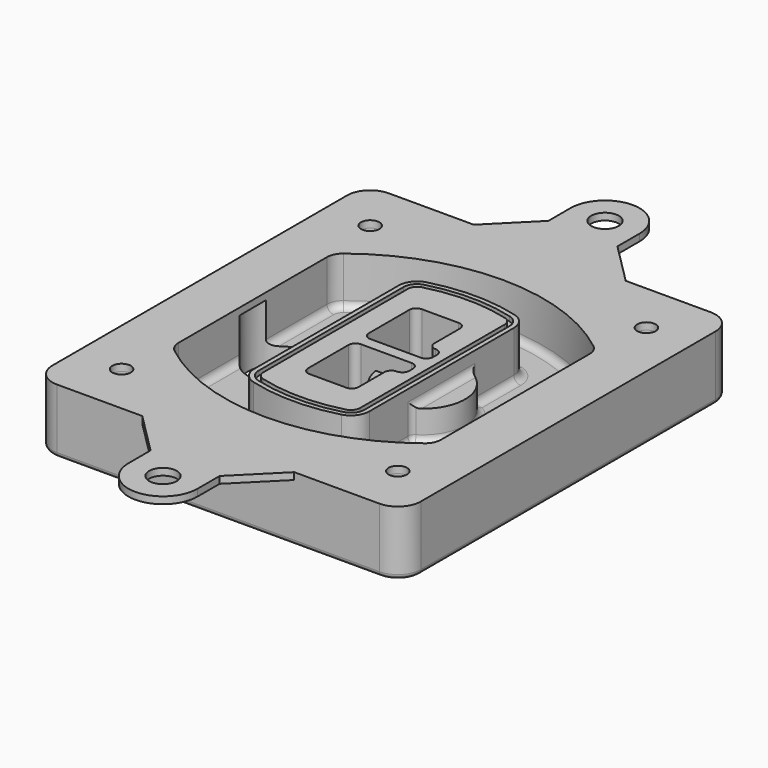
from build123d import *

# Parameters (mm, degrees)
F0_R      = 4
F1_DEPTH  = 25
F2_DEPTH  = 3
F3_DEPTH  = 18
F5_DEPTH  = 21
F6_DEPTH  = 2
F8_DEPTH  = 20
F9_DEPTH  = 16
F10_DEPTH = 25
F7_R      = 6
F7_R_2    = 4
F11_DEPTH = 6
F13_DEPTH = 9
F14_R     = 3
F15_R     = 2
F16_R     = 6
F16_R_2   = 4
F17_DEPTH = 3


with BuildPart() as f1:
    # F0 (on Top) → F1 (new body)
    with BuildSketch(Plane.XY):
        with BuildLine():
            ThreePointArc((-80, -80), (-77.0710678119, -87.0710678119), (-70, -90))
            Line((-70, -90), (70, -90))
            ThreePointArc((70, -90), (77.0710678119, -87.0710678119), (80, -80))
            Line((80, -80), (80, 80))
            ThreePointArc((80, 80), (77.0710678119, 87.0710678119), (70, 90))
            Line((70, 90), (-70, 90))
            ThreePointArc((-70, 90), (-77.0710678119, 87.0710678119), (-80, 80))
            Line((-80, 80), (-80, -80))
        make_face()
        with Locations((-60, -67.5)):
            Circle(F0_R, mode=Mode.SUBTRACT)
        with Locations((60, -67.5)):
            Circle(F0_R, mode=Mode.SUBTRACT)
        with Locations((-60, 67.5)):
            Circle(F0_R, mode=Mode.SUBTRACT)
        with BuildLine():
            ThreePointArc((-64, 40.2934422872), (-62.5820384798, 46.4328484224), (-58.6153846154, 51.3286200352))
            ThreePointArc((-58.6153846154, 51.3286200352), (0, 71.5), (58.6153846154, 51.3286200352))
            ThreePointArc((58.6153846154, 51.3286200352), (62.5820384798, 46.4328484224), (64, 40.2934422872))
            Line((64, 40.2934422872), (64, -40.2934422872))
            ThreePointArc((64, -40.2934422872), (62.5820384798, -46.4328484224), (58.6153846154, -51.3286200352))
            ThreePointArc((58.6153846154, -51.3286200352), (0, -71.5), (-58.6153846154, -51.3286200352))
            ThreePointArc((-58.6153846154, -51.3286200352), (-62.5820384798, -46.4328484224), (-64, -40.2934422872))
            Line((-64, -40.2934422872), (-64, 40.2934422872))
        make_face(mode=Mode.SUBTRACT)
        with Locations((60, 67.5)):
            Circle(F0_R, mode=Mode.SUBTRACT)
        with BuildLine():
            ThreePointArc((58.6153846154, 51.3286200352), (0, 71.5), (-58.6153846154, 51.3286200352))
            ThreePointArc((-58.6153846154, 51.3286200352), (-62.5820384798, 46.4328484224), (-64, 40.2934422872))
            Line((-64, 40.2934422872), (-64, -40.2934422872))
            ThreePointArc((-64, -40.2934422872), (-62.5820384798, -46.4328484224), (-58.6153846154, -51.3286200352))
            ThreePointArc((-58.6153846154, -51.3286200352), (0, -71.5), (58.6153846154, -51.3286200352))
            ThreePointArc((58.6153846154, -51.3286200352), (62.5820384798, -46.4328484224), (64, -40.2934422872))
            Line((64, -40.2934422872), (64, 40.2934422872))
            ThreePointArc((64, 40.2934422872), (62.5820384798, 46.4328484224), (58.6153846154, 51.3286200352))
        make_face()
        with BuildLine():
            Line((-60, -40.2934422872), (-60, 40.2934422872))
            ThreePointArc((-60, 40.2934422872), (-58.9871703427, 44.6787323838), (-56.1538461538, 48.1757121072))
            ThreePointArc((-56.1538461538, 48.1757121072), (0, 67.5), (56.1538461538, 48.1757121072))
            ThreePointArc((56.1538461538, 48.1757121072), (58.9871703427, 44.6787323838), (60, 40.2934422872))
            Line((60, 40.2934422872), (60, -40.2934422872))
            ThreePointArc((60, -40.2934422872), (58.9871703427, -44.6787323838), (56.1538461538, -48.1757121072))
            ThreePointArc((56.1538461538, -48.1757121072), (0, -67.5), (-56.1538461538, -48.1757121072))
            ThreePointArc((-56.1538461538, -48.1757121072), (-58.9871703427, -44.6787323838), (-60, -40.2934422872))
        make_face(mode=Mode.SUBTRACT)
        with BuildLine():
            ThreePointArc((-56.1538461538, 48.1757121072), (-58.9871703427, 44.6787323838), (-60, 40.2934422872))
            Line((-60, 40.2934422872), (-60, -40.2934422872))
            ThreePointArc((-60, -40.2934422872), (-58.9871703427, -44.6787323838), (-56.1538461538, -48.1757121072))
            ThreePointArc((-56.1538461538, -48.1757121072), (0, -67.5), (56.1538461538, -48.1757121072))
            ThreePointArc((56.1538461538, -48.1757121072), (58.9871703427, -44.6787323838), (60, -40.2934422872))
            Line((60, -40.2934422872), (60, 40.2934422872))
            ThreePointArc((60, 40.2934422872), (58.9871703427, 44.6787323838), (56.1538461538, 48.1757121072))
            ThreePointArc((56.1538461538, 48.1757121072), (0, 67.5), (-56.1538461538, 48.1757121072))
        make_face()
        with BuildLine():
            ThreePointArc((54.3076923077, 45.8110311612), (56.2910192399, 43.3631453548), (57, 40.2934422872))
            Line((57, 40.2934422872), (57, -40.2934422872))
            ThreePointArc((57, -40.2934422872), (56.2910192399, -43.3631453548), (54.3076923077, -45.8110311612))
            ThreePointArc((54.3076923077, -45.8110311612), (0, -64.5), (-54.3076923077, -45.8110311612))
            ThreePointArc((-54.3076923077, -45.8110311612), (-56.2910192399, -43.3631453548), (-57, -40.2934422872))
            Line((-57, -40.2934422872), (-57, 40.2934422872))
            ThreePointArc((-57, 40.2934422872), (-56.2910192399, 43.3631453548), (-54.3076923077, 45.8110311612))
            ThreePointArc((-54.3076923077, 45.8110311612), (0, 64.5), (54.3076923077, 45.8110311612))
        make_face(mode=Mode.SUBTRACT)
        with BuildLine():
            Line((57, -40.2934422872), (57, 40.2934422872))
            ThreePointArc((57, 40.2934422872), (56.2910192399, 43.3631453548), (54.3076923077, 45.8110311612))
            ThreePointArc((54.3076923077, 45.8110311612), (0, 64.5), (-54.3076923077, 45.8110311612))
            ThreePointArc((-54.3076923077, 45.8110311612), (-56.2910192399, 43.3631453548), (-57, 40.2934422872))
            Line((-57, 40.2934422872), (-57, -40.2934422872))
            ThreePointArc((-57, -40.2934422872), (-56.2910192399, -43.3631453548), (-54.3076923077, -45.8110311612))
            ThreePointArc((-54.3076923077, -45.8110311612), (0, -64.5), (54.3076923077, -45.8110311612))
            ThreePointArc((54.3076923077, -45.8110311612), (56.2910192399, -43.3631453548), (57, -40.2934422872))
        make_face()
    extrude(amount=-F1_DEPTH)

    # F0 (on Top) → F2 (join)
    with BuildSketch(Plane.XY):
        with BuildLine():
            ThreePointArc((-56.1538461538, 48.1757121072), (-58.9871703427, 44.6787323838), (-60, 40.2934422872))
            Line((-60, 40.2934422872), (-60, -40.2934422872))
            ThreePointArc((-60, -40.2934422872), (-58.9871703427, -44.6787323838), (-56.1538461538, -48.1757121072))
            ThreePointArc((-56.1538461538, -48.1757121072), (0, -67.5), (56.1538461538, -48.1757121072))
            ThreePointArc((56.1538461538, -48.1757121072), (58.9871703427, -44.6787323838), (60, -40.2934422872))
            Line((60, -40.2934422872), (60, 40.2934422872))
            ThreePointArc((60, 40.2934422872), (58.9871703427, 44.6787323838), (56.1538461538, 48.1757121072))
            ThreePointArc((56.1538461538, 48.1757121072), (0, 67.5), (-56.1538461538, 48.1757121072))
        make_face()
        with BuildLine():
            ThreePointArc((54.3076923077, 45.8110311612), (56.2910192399, 43.3631453548), (57, 40.2934422872))
            Line((57, 40.2934422872), (57, -40.2934422872))
            ThreePointArc((57, -40.2934422872), (56.2910192399, -43.3631453548), (54.3076923077, -45.8110311612))
            ThreePointArc((54.3076923077, -45.8110311612), (0, -64.5), (-54.3076923077, -45.8110311612))
            ThreePointArc((-54.3076923077, -45.8110311612), (-56.2910192399, -43.3631453548), (-57, -40.2934422872))
            Line((-57, -40.2934422872), (-57, 40.2934422872))
            ThreePointArc((-57, 40.2934422872), (-56.2910192399, 43.3631453548), (-54.3076923077, 45.8110311612))
            ThreePointArc((-54.3076923077, 45.8110311612), (0, 64.5), (54.3076923077, 45.8110311612))
        make_face(mode=Mode.SUBTRACT)
    extrude(amount=F2_DEPTH)

    # F0 (on Top) → F3 (cut)
    with BuildSketch(Plane.XY):
        with BuildLine():
            Line((57, -40.2934422872), (57, 40.2934422872))
            ThreePointArc((57, 40.2934422872), (56.2910192399, 43.3631453548), (54.3076923077, 45.8110311612))
            ThreePointArc((54.3076923077, 45.8110311612), (0, 64.5), (-54.3076923077, 45.8110311612))
            ThreePointArc((-54.3076923077, 45.8110311612), (-56.2910192399, 43.3631453548), (-57, 40.2934422872))
            Line((-57, 40.2934422872), (-57, -40.2934422872))
            ThreePointArc((-57, -40.2934422872), (-56.2910192399, -43.3631453548), (-54.3076923077, -45.8110311612))
            ThreePointArc((-54.3076923077, -45.8110311612), (0, -64.5), (54.3076923077, -45.8110311612))
            ThreePointArc((54.3076923077, -45.8110311612), (56.2910192399, -43.3631453548), (57, -40.2934422872))
        make_face()
    extrude(amount=-F3_DEPTH, mode=Mode.SUBTRACT)

    # F4 (on face) → F5 (join, through all)
    with BuildSketch(Plane.XY.offset(3)):
        with BuildLine():
            ThreePointArc((-25, -39.2465276821), (-23.3511545998, -44.1109737193), (-19.0842911877, -46.9702398883))
            ThreePointArc((-19.0842911877, -46.9702398883), (0, -49.5), (19.0842911877, -46.9702398883))
            ThreePointArc((19.0842911877, -46.9702398883), (23.3511545998, -44.1109737193), (25, -39.2465276821))
            Line((25, -39.2465276821), (25, 39.2465276821))
            ThreePointArc((25, 39.2465276821), (23.3511545998, 44.1109737193), (19.0842911877, 46.9702398883))
            ThreePointArc((19.0842911877, 46.9702398883), (0, 49.5), (-19.0842911877, 46.9702398883))
            ThreePointArc((-19.0842911877, 46.9702398883), (-23.3511545998, 44.1109737193), (-25, 39.2465276821))
            Line((-25, 39.2465276821), (-25, -39.2465276821))
        make_face()
        with BuildLine():
            ThreePointArc((18.5632183908, 45.0393118368), (21.7633659499, 42.89486221), (23, 39.2465276821))
            Line((23, 39.2465276821), (23, -39.2465276821))
            ThreePointArc((23, -39.2465276821), (21.7633659499, -42.89486221), (18.5632183908, -45.0393118368))
            ThreePointArc((18.5632183908, -45.0393118368), (0, -47.5), (-18.5632183908, -45.0393118368))
            ThreePointArc((-18.5632183908, -45.0393118368), (-21.7633659499, -42.89486221), (-23, -39.2465276821))
            Line((-23, -39.2465276821), (-23, 39.2465276821))
            ThreePointArc((-23, 39.2465276821), (-21.7633659499, 42.89486221), (-18.5632183908, 45.0393118368))
            ThreePointArc((-18.5632183908, 45.0393118368), (0, 47.5), (18.5632183908, 45.0393118368))
        make_face(mode=Mode.SUBTRACT)
        with BuildLine():
            Line((23, -39.2465276821), (23, 39.2465276821))
            ThreePointArc((23, 39.2465276821), (21.7633659499, 42.89486221), (18.5632183908, 45.0393118368))
            ThreePointArc((18.5632183908, 45.0393118368), (0, 47.5), (-18.5632183908, 45.0393118368))
            ThreePointArc((-18.5632183908, 45.0393118368), (-21.7633659499, 42.89486221), (-23, 39.2465276821))
            Line((-23, 39.2465276821), (-23, -39.2465276821))
            ThreePointArc((-23, -39.2465276821), (-21.7633659499, -42.89486221), (-18.5632183908, -45.0393118368))
            ThreePointArc((-18.5632183908, -45.0393118368), (0, -47.5), (18.5632183908, -45.0393118368))
            ThreePointArc((18.5632183908, -45.0393118368), (21.7633659499, -42.89486221), (23, -39.2465276821))
        make_face()
        with BuildLine():
            ThreePointArc((18.0421455939, 43.1083837852), (20.1755772999, 41.6787507007), (21, 39.2465276821))
            Line((21, 39.2465276821), (21, -39.2465276821))
            ThreePointArc((21, -39.2465276821), (20.1755772999, -41.6787507007), (18.0421455939, -43.1083837852))
            ThreePointArc((18.0421455939, -43.1083837852), (0, -45.5), (-18.0421455939, -43.1083837852))
            ThreePointArc((-18.0421455939, -43.1083837852), (-20.1755772999, -41.6787507007), (-21, -39.2465276821))
            Line((-21, -39.2465276821), (-21, 39.2465276821))
            ThreePointArc((-21, 39.2465276821), (-20.1755772999, 41.6787507007), (-18.0421455939, 43.1083837852))
            ThreePointArc((-18.0421455939, 43.1083837852), (0, 45.5), (18.0421455939, 43.1083837852))
        make_face(mode=Mode.SUBTRACT)
        with BuildLine():
            Line((21, -39.2465276821), (21, 39.2465276821))
            ThreePointArc((21, 39.2465276821), (20.1755772999, 41.6787507007), (18.0421455939, 43.1083837852))
            ThreePointArc((18.0421455939, 43.1083837852), (0, 45.5), (-18.0421455939, 43.1083837852))
            ThreePointArc((-18.0421455939, 43.1083837852), (-20.1755772999, 41.6787507007), (-21, 39.2465276821))
            Line((-21, 39.2465276821), (-21, -39.2465276821))
            ThreePointArc((-21, -39.2465276821), (-20.1755772999, -41.6787507007), (-18.0421455939, -43.1083837852))
            ThreePointArc((-18.0421455939, -43.1083837852), (0, -45.5), (18.0421455939, -43.1083837852))
            ThreePointArc((18.0421455939, -43.1083837852), (20.1755772999, -41.6787507007), (21, -39.2465276821))
        make_face()
        with BuildLine():
            Line((-8, -2.5), (14, -2.5))
            ThreePointArc((14, -2.5), (16.1213203436, -3.3786796564), (17, -5.5))
            Line((17, -5.5), (17, -7.5))
            ThreePointArc((17, -7.5), (16.1213203436, -9.6213203436), (14, -10.5))
            ThreePointArc((14, -10.5), (11.8786796564, -11.3786796564), (11, -13.5))
            Line((11, -13.5), (11, -27.5))
            ThreePointArc((11, -27.5), (10.1213203436, -29.6213203436), (8, -30.5))
            Line((8, -30.5), (-8, -30.5))
            ThreePointArc((-8, -30.5), (-10.1213203436, -29.6213203436), (-11, -27.5))
            Line((-11, -27.5), (-11, -5.5))
            ThreePointArc((-11, -5.5), (-10.1213203436, -3.3786796564), (-8, -2.5))
        make_face(mode=Mode.SUBTRACT)
        with BuildLine():
            ThreePointArc((-8, 2.5), (-10.1213203436, 3.3786796564), (-11, 5.5))
            Line((-11, 5.5), (-11, 27.5))
            ThreePointArc((-11, 27.5), (-10.1213203436, 29.6213203436), (-8, 30.5))
            Line((-8, 30.5), (8, 30.5))
            ThreePointArc((8, 30.5), (10.1213203436, 29.6213203436), (11, 27.5))
            Line((11, 27.5), (11, 13.5))
            ThreePointArc((11, 13.5), (11.8786796564, 11.3786796564), (14, 10.5))
            ThreePointArc((14, 10.5), (16.1213203436, 9.6213203436), (17, 7.5))
            Line((17, 7.5), (17, 5.5))
            ThreePointArc((17, 5.5), (16.1213203436, 3.3786796564), (14, 2.5))
            Line((14, 2.5), (-8, 2.5))
        make_face(mode=Mode.SUBTRACT)
    extrude(amount=-F5_DEPTH)

    # F4 (on face) → F6 (cut)
    with BuildSketch(Plane.XY.offset(3)):
        with BuildLine():
            Line((23, -39.2465276821), (23, 39.2465276821))
            ThreePointArc((23, 39.2465276821), (21.7633659499, 42.89486221), (18.5632183908, 45.0393118368))
            ThreePointArc((18.5632183908, 45.0393118368), (0, 47.5), (-18.5632183908, 45.0393118368))
            ThreePointArc((-18.5632183908, 45.0393118368), (-21.7633659499, 42.89486221), (-23, 39.2465276821))
            Line((-23, 39.2465276821), (-23, -39.2465276821))
            ThreePointArc((-23, -39.2465276821), (-21.7633659499, -42.89486221), (-18.5632183908, -45.0393118368))
            ThreePointArc((-18.5632183908, -45.0393118368), (0, -47.5), (18.5632183908, -45.0393118368))
            ThreePointArc((18.5632183908, -45.0393118368), (21.7633659499, -42.89486221), (23, -39.2465276821))
        make_face()
        with BuildLine():
            ThreePointArc((18.0421455939, 43.1083837852), (20.1755772999, 41.6787507007), (21, 39.2465276821))
            Line((21, 39.2465276821), (21, -39.2465276821))
            ThreePointArc((21, -39.2465276821), (20.1755772999, -41.6787507007), (18.0421455939, -43.1083837852))
            ThreePointArc((18.0421455939, -43.1083837852), (0, -45.5), (-18.0421455939, -43.1083837852))
            ThreePointArc((-18.0421455939, -43.1083837852), (-20.1755772999, -41.6787507007), (-21, -39.2465276821))
            Line((-21, -39.2465276821), (-21, 39.2465276821))
            ThreePointArc((-21, 39.2465276821), (-20.1755772999, 41.6787507007), (-18.0421455939, 43.1083837852))
            ThreePointArc((-18.0421455939, 43.1083837852), (0, 45.5), (18.0421455939, 43.1083837852))
        make_face(mode=Mode.SUBTRACT)
    extrude(amount=-F6_DEPTH, mode=Mode.SUBTRACT)

    # F7 (on face) → F8 (join)
    with BuildSketch(Plane(origin=(0, 0, -25), x_dir=(1, 0, 0), z_dir=(0, 0, -1))):
        with BuildLine():
            ThreePointArc((3.28842436, 0), (16.7567035675, 13.4682792075), (30.224982775, 0))
            Line((30.224982775, 0), (35.224982775, 0))
            ThreePointArc((35.224982775, 0), (16.7567035675, 18.4682792075), (-1.71157564, 0))
            Line((-1.71157564, 0), (3.28842436, 0))
        make_face()
        with BuildLine():
            Line((3.28842436, 0), (30.224982775, 0))
            ThreePointArc((30.224982775, 0), (16.7567035675, 13.4682792075), (3.28842436, 0))
        make_face()
        with BuildLine():
            ThreePointArc((3.28842436, 0), (16.7567035675, -13.4682792075), (30.224982775, 0))
            Line((30.224982775, 0), (3.28842436, 0))
        make_face()
        with BuildLine():
            Line((35.224982775, 0), (30.224982775, 0))
            ThreePointArc((30.224982775, 0), (16.7567035675, -13.4682792075), (3.28842436, 0))
            Line((3.28842436, 0), (-1.71157564, 0))
            ThreePointArc((-1.71157564, 0), (16.7567035675, -18.4682792075), (35.224982775, 0))
        make_face()
    extrude(amount=-F8_DEPTH)

    # F7 (on face) → F9 (cut)
    with BuildSketch(Plane(origin=(0, 0, -25), x_dir=(1, 0, 0), z_dir=(0, 0, -1))):
        with BuildLine():
            Line((3.28842436, 0), (30.224982775, 0))
            ThreePointArc((30.224982775, 0), (16.7567035675, 13.4682792075), (3.28842436, 0))
        make_face()
        with BuildLine():
            ThreePointArc((3.28842436, 0), (16.7567035675, -13.4682792075), (30.224982775, 0))
            Line((30.224982775, 0), (3.28842436, 0))
        make_face()
    extrude(amount=-F9_DEPTH, mode=Mode.SUBTRACT)

    # F7 (on face) → F10 (cut)
    with BuildSketch(Plane(origin=(0, 0, -25), x_dir=(1, 0, 0), z_dir=(0, 0, -1))):
        with BuildLine():
            Line((-59.0318229325, 0), (-32.0952645175, 0))
            ThreePointArc((-32.0952645175, 0), (-45.563543725, 13.4682792075), (-59.0318229325, 0))
        make_face()
        with BuildLine():
            ThreePointArc((-59.0318229325, 0), (-45.563543725, -13.4682792075), (-32.0952645175, 0))
            Line((-32.0952645175, 0), (-59.0318229325, 0))
        make_face()
    extrude(amount=-F10_DEPTH, mode=Mode.SUBTRACT)

    # F7 (on face) → F11 (cut)
    with BuildSketch(Plane(origin=(0, 0, -25), x_dir=(1, 0, 0), z_dir=(0, 0, -1))):
        with Locations((60, -67.5)):
            Circle(F7_R)
        with Locations((60, -67.5)):
            Circle(F7_R_2, mode=Mode.SUBTRACT)
        with Locations((60, -67.5)):
            Circle(F7_R)
        with Locations((60, -67.5)):
            Circle(F7_R_2, mode=Mode.SUBTRACT)
        with Locations((-60, -67.5)):
            Circle(F7_R)
        with Locations((-60, -67.5)):
            Circle(F7_R_2, mode=Mode.SUBTRACT)
        with Locations((-60, -67.5)):
            Circle(F7_R)
        with Locations((-60, -67.5)):
            Circle(F7_R_2, mode=Mode.SUBTRACT)
        with Locations((-60, 67.5)):
            Circle(F7_R)
        with Locations((-60, 67.5)):
            Circle(F7_R_2, mode=Mode.SUBTRACT)
        with Locations((-60, 67.5)):
            Circle(F7_R)
        with Locations((-60, 67.5)):
            Circle(F7_R_2, mode=Mode.SUBTRACT)
        with Locations((60, 67.5)):
            Circle(F7_R)
        with Locations((60, 67.5)):
            Circle(F7_R_2, mode=Mode.SUBTRACT)
        with Locations((60, 67.5)):
            Circle(F7_R)
        with Locations((60, 67.5)):
            Circle(F7_R_2, mode=Mode.SUBTRACT)
    extrude(amount=-F11_DEPTH, mode=Mode.SUBTRACT)

    # F12 (on face) → F13 (cut, through all)
    with BuildSketch(Plane(origin=(0, 0, -9), x_dir=(1, 0, 0), z_dir=(0, 0, -1))):
        with BuildLine():
            Line((11, 13.5), (11, 17.5481537753))
            ThreePointArc((11, 17.5481537753), (2.5696536419, 11.8239143813), (-1.5415842455, 2.5))
            Line((-1.5415842455, 2.5), (3.5224848595, 2.5))
            ThreePointArc((3.5224848595, 2.5), (6.1857188154, 8.3455872281), (11.2536447004, 12.2927168648))
            ThreePointArc((11.2536447004, 12.2927168648), (11.0640958889, 12.8831798879), (11, 13.5))
        make_face()
        with BuildLine():
            ThreePointArc((11.2536447004, -12.2927168648), (6.1857188154, -8.3455872281), (3.5224848595, -2.5))
            Line((3.5224848595, -2.5), (-1.5415842455, -2.5))
            ThreePointArc((-1.5415842455, -2.5), (2.5696536419, -11.8239143813), (11, -17.5481537753))
            Line((11, -17.5481537753), (11, -13.5))
            ThreePointArc((11, -13.5), (11.0640958889, -12.8831798879), (11.2536447004, -12.2927168648))
        make_face()
        with BuildLine():
            ThreePointArc((11.2536447004, 12.2927168648), (6.1857188154, 8.3455872281), (3.5224848595, 2.5))
            Line((3.5224848595, 2.5), (14, 2.5))
            ThreePointArc((14, 2.5), (16.1213203436, 3.3786796564), (17, 5.5))
            Line((17, 5.5), (17, 7.5))
            ThreePointArc((17, 7.5), (16.1213203436, 9.6213203436), (14, 10.5))
            ThreePointArc((14, 10.5), (12.3601599782, 10.9878446101), (11.2536447004, 12.2927168648))
        make_face()
        with BuildLine():
            Line((14, -2.5), (3.5224848595, -2.5))
            ThreePointArc((3.5224848595, -2.5), (6.1857188154, -8.3455872281), (11.2536447004, -12.2927168648))
            ThreePointArc((11.2536447004, -12.2927168648), (12.3601599782, -10.9878446101), (14, -10.5))
            ThreePointArc((14, -10.5), (16.1213203436, -9.6213203436), (17, -7.5))
            Line((17, -7.5), (17, -5.5))
            ThreePointArc((17, -5.5), (16.1213203436, -3.3786796564), (14, -2.5))
        make_face()
    extrude(amount=F13_DEPTH, mode=Mode.SUBTRACT)

    # F14
    f14_edges = [f1.edges().sort_by_distance(p)[0] for p in [
        (-57, -23.703476, -18),
        (-57, 23.703476, -18),
        (25, 0, -5),
        (25, 16.526506, -11.5),
        (25, -16.526506, -11.5),
        (25, -27.886517, -18),
        (35.224983, 0, -18),
    ]]
    fillet(f14_edges, radius=F14_R)

    # F15
    f15_edges = [f1.edges().sort_by_distance(p)[0] for p in [
        (0, -90, -25),
    ]]
    fillet(f15_edges, radius=F15_R)

    # F16 (on face) → F17 (join, through all)
    with BuildSketch(Plane.XY):
        with BuildLine():
            Line((15, -108), (33, -90))
            Line((33, -90), (-33, -90))
            Line((-33, -90), (-15, -108))
            Line((-15, -108), (-15, -120))
            ThreePointArc((-15, -120), (0, -135), (15, -120))
            Line((15, -120), (15, -108))
        make_face()
        with Locations((0, -120)):
            Circle(F16_R, mode=Mode.SUBTRACT)
        with BuildLine():
            Line((70, 90), (33, 90))
            Line((33, 90), (-33, 90))
            Line((-33, 90), (-70, 90))
            ThreePointArc((-70, 90), (-77.0710678119, 87.0710678119), (-80, 80))
            Line((-80, 80), (-80, -80))
            ThreePointArc((-80, -80), (-77.0710678119, -87.0710678119), (-70, -90))
            Line((-70, -90), (-33, -90))
            Line((-33, -90), (33, -90))
            Line((33, -90), (70, -90))
            ThreePointArc((70, -90), (77.0710678119, -87.0710678119), (80, -80))
            Line((80, -80), (80, 80))
            ThreePointArc((80, 80), (77.0710678119, 87.0710678119), (70, 90))
        make_face()
        with Locations((-60, -67.5)):
            Circle(F16_R_2, mode=Mode.SUBTRACT)
        with Locations((60, -67.5)):
            Circle(F16_R_2, mode=Mode.SUBTRACT)
        with Locations((-60, 67.5)):
            Circle(F16_R_2, mode=Mode.SUBTRACT)
        with BuildLine():
            ThreePointArc((-60, 40.2934422872), (-58.9871703427, 44.6787323838), (-56.1538461538, 48.1757121072))
            ThreePointArc((-56.1538461538, 48.1757121072), (0, 67.5), (56.1538461538, 48.1757121072))
            ThreePointArc((56.1538461538, 48.1757121072), (58.9871703427, 44.6787323838), (60, 40.2934422872))
            Line((60, 40.2934422872), (60, -40.2934422872))
            ThreePointArc((60, -40.2934422872), (58.9871703427, -44.6787323838), (56.1538461538, -48.1757121072))
            ThreePointArc((56.1538461538, -48.1757121072), (0, -67.5), (-56.1538461538, -48.1757121072))
            ThreePointArc((-56.1538461538, -48.1757121072), (-58.9871703427, -44.6787323838), (-60, -40.2934422872))
            Line((-60, -40.2934422872), (-60, 40.2934422872))
        make_face(mode=Mode.SUBTRACT)
        with Locations((60, 67.5)):
            Circle(F16_R_2, mode=Mode.SUBTRACT)
        with BuildLine():
            Line((15, 108), (15, 120))
            ThreePointArc((15, 120), (0, 135), (-15, 120))
            Line((-15, 120), (-15, 108))
            Line((-15, 108), (-33, 90))
            Line((-33, 90), (33, 90))
            Line((33, 90), (15, 108))
        make_face()
        with Locations((0, 120)):
            Circle(F16_R, mode=Mode.SUBTRACT)
    extrude(amount=F17_DEPTH)


solid = f1.part
